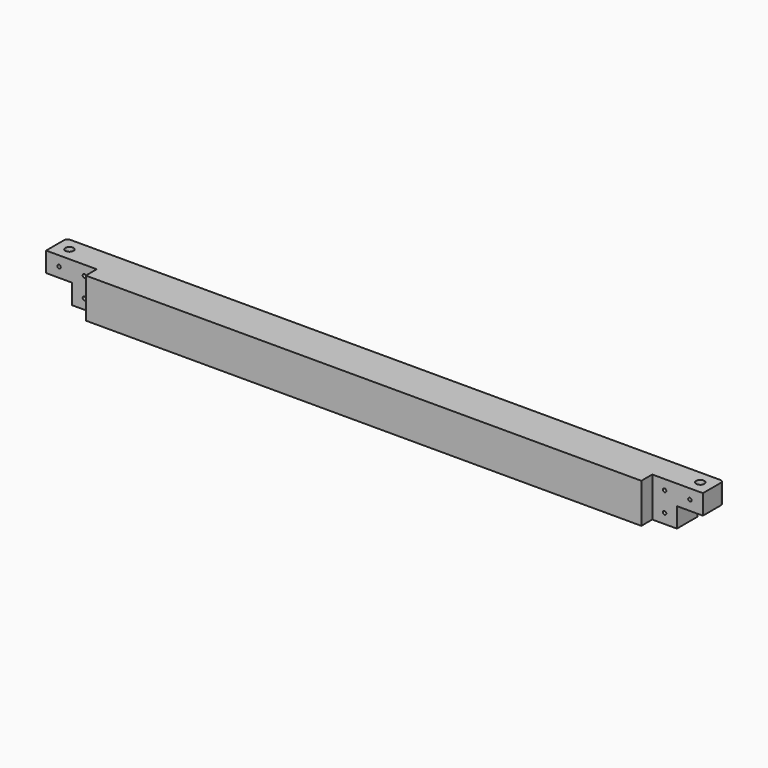
from build123d import *

# Parameters (mm, degrees)
F0_W           = 38
F0_H           = 29
F1_DEPTH       = 480
F2_DEPTH       = 74
F3_DEPTH       = 38
F4_R           = 5
F7_D           = 12
F8_D           = 5
F8_CSINK_D     = 10
F8_CSINK_ANGLE = 90


with BuildPart() as f1:
    # F0 (on Right) → F1 (new body)
    with BuildSketch(Plane.YZ):
        with Locations((10, -14.5)):
            Rectangle(F0_W, F0_H)
        with Locations((10, 14.5)):
            Rectangle(F0_W, F0_H)
        Polygon((-9, 0), (-9, 29), (-29, 29), (-29, -29), (-9, -29), align=None)
    extrude(amount=-F1_DEPTH)

    # F0 (on Right) → F2 (cut)
    with BuildSketch(Plane.YZ):
        Polygon((-9, 0), (-9, 29), (-29, 29), (-29, -29), (-9, -29), align=None)
    extrude(amount=-F2_DEPTH, mode=Mode.SUBTRACT)

    # F0 (on Right) → F3 (cut)
    with BuildSketch(Plane.YZ):
        with Locations((10, -14.5)):
            Rectangle(F0_W, F0_H)
    extrude(amount=-F3_DEPTH, mode=Mode.SUBTRACT)

    # F4
    f4_edges = [f1.edges().sort_by_distance(p)[0] for p in [
        (0, 29, 14.5),
    ]]
    fillet(f4_edges, radius=F4_R)

    # F7 (through all)
    with Locations(Plane(origin=(0, 0, 0), x_dir=(1, 0, 0), z_dir=(0, 0, -1))):
        with Locations((-19, -10)):
            Hole(F7_D / 2)

    # F8 (through all)
    with Locations(Plane(origin=(0, 29, 0), x_dir=(-1, 0, 0), z_dir=(0, 1, 0))):
        with Locations((19, 14.5), (56, 14.5), (56, -14.5)):
            CounterSinkHole(F8_D / 2, F8_CSINK_D / 2, counter_sink_angle=F8_CSINK_ANGLE)

    # F9: F1 across face


with BuildPart() as f1_1:
    add(f1.part)
    add(f1.part.mirror(Plane(origin=(-480, 0, 0), x_dir=(0, 1, 0), z_dir=(-1, 0, 0))))


solid = f1_1.part
